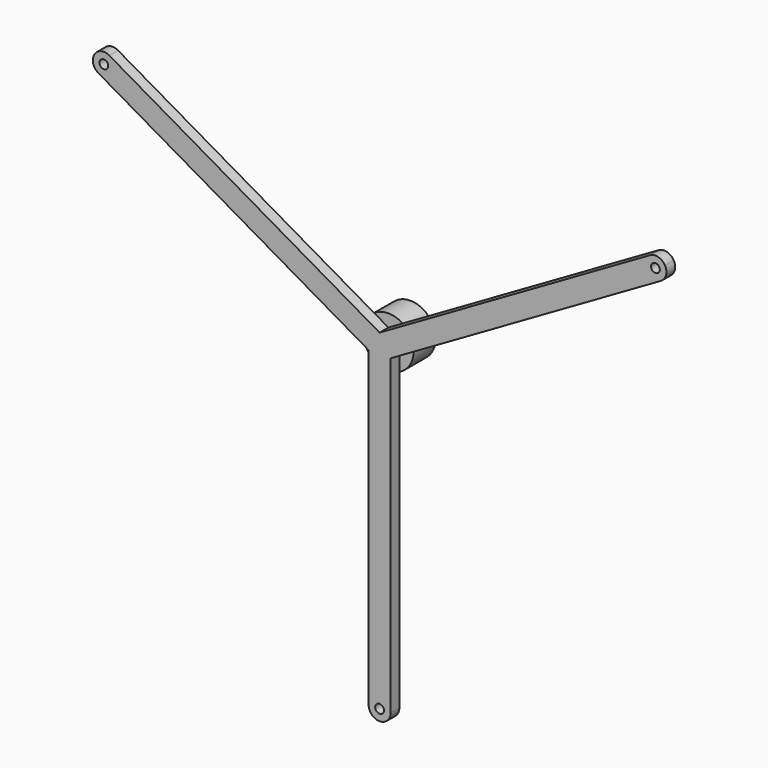
from build123d import *

# Parameters (mm, degrees)
F0_R     = 4
F1_DEPTH = 10
F3_COUNT = 3
F3_ANGLE = 240
F4_R     = 23.0054
F5_DEPTH = 25


with BuildPart() as f1:
    # F0 (on Front) → F1 (new body)
    with BuildSketch(Plane.XZ):
        with BuildLine():
            Line((10, 0), (-10, 0))
            Line((-10, 0), (-10, -290))
            ThreePointArc((-10, -290), (-7.071068, -297.071068), (0, -300))
            ThreePointArc((0, -300), (7.071068, -297.071068), (10, -290))
            Line((10, -290), (10, 0))
        make_face()
        with Locations((0, -290)):
            Circle(F0_R, mode=Mode.SUBTRACT)
    extrude(amount=F1_DEPTH)



with BuildPart() as f3_1:
    # F3: instance of F1
    add(f1.part.rotate(Axis((0, -33.912361, 0), (0, -1, 0)), 1 * F3_ANGLE / (F3_COUNT - 1)))


with BuildPart() as f3_2:
    # F3: instance of F1
    add(f1.part.rotate(Axis((0, -33.912361, 0), (0, -1, 0)), 2 * F3_ANGLE / (F3_COUNT - 1)))


with BuildPart() as f1_1:
    add(f1.part)

    add(f3_1.part)  # F5 merges F3_1

    add(f3_2.part)  # F5 merges F3_2
    # F4 (on face) → F5 (join)
    with BuildSketch(Plane(origin=(0, 0, 0), x_dir=(-1, 0, 0), z_dir=(0, 1, 0))):
        Circle(F4_R)
    extrude(amount=F5_DEPTH)


solid = f1_1.part
